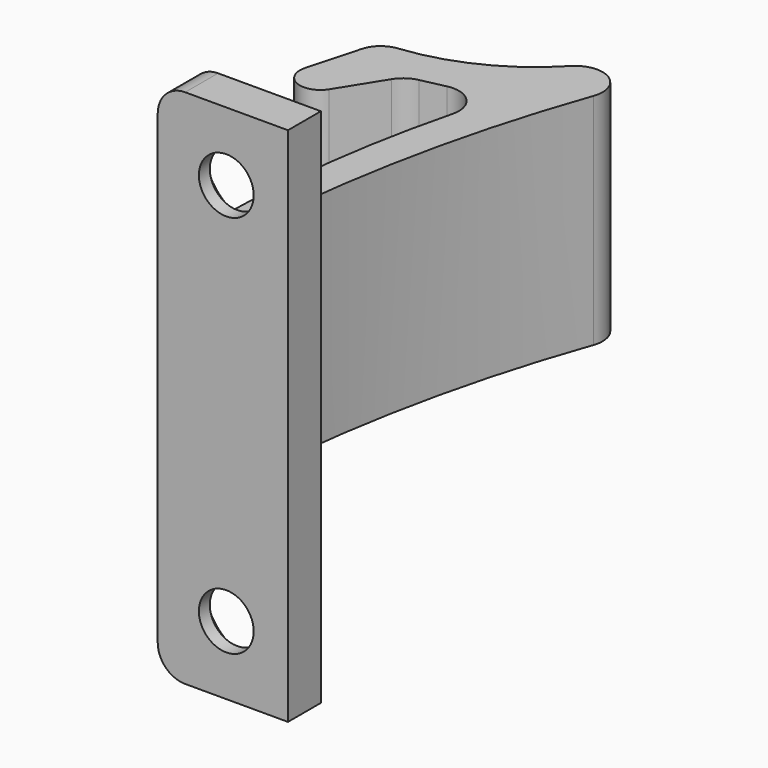
from build123d import *

# Parameters (mm, degrees)
F1_DEPTH       = 16
F2_W           = 9.5
F2_H           = 3
F3_DEPTH       = 11
F6_D           = 4
F6_CSINK_D     = 8
F6_CSINK_ANGLE = 90
F8_R           = 2
F9_R           = 3
F10_R          = 2


with BuildPart() as f1:
    # F0 (on Top) → F1 (new body)
    with BuildSketch(Plane.XY):
        with BuildLine():
            ThreePointArc((2, 3), (3.5524079534, 17.0474266553), (7.2489157042, 30.688394236))
            ThreePointArc((7.2489157042, 30.688394236), (6.4110728807, 33.0634017317), (3.9140154247, 32.735765863))
            ThreePointArc((3.9140154247, 32.735765863), (-0.2014778431, 29.7072757815), (-5.1119606936, 28.2944080641))
            ThreePointArc((-5.1119606936, 28.2944080641), (-6.1052113837, 27.8706276086), (-6.6852554951, 26.9597567962))
            Line((-6.6852554951, 26.9597567962), (-7.7398444423, 23.101280134))
            ThreePointArc((-7.7398444423, 23.101280134), (-6.8937110874, 21.3313839825), (-5.019957521, 21.9123500865))
            Line((-5.019957521, 21.9123500865), (-2.5832541287, 25.8215889335))
            Line((-2.5832541287, 25.8215889335), (0, 26.3843059314))
            ThreePointArc((0, 26.3843059314), (1.8642632491, 25.8195517282), (2.3638801074, 23.9367857399))
            ThreePointArc((2.3638801074, 23.9367857399), (0.4646962608, 13.5493737022), (0, 3))
            Line((0, 3), (0, 0))
            Line((0, 0), (9.5, 0))
            Line((9.5, 0), (9.5, 3))
            Line((9.5, 3), (2, 3))
        make_face()
    extrude(amount=F1_DEPTH)

    # F2 (on face) → F3 (join)
    with BuildSketch(Plane.XY.offset(16)):
        with Locations((4.75, 1.5)):
            Rectangle(F2_W, F2_H)
    extrude(amount=F3_DEPTH)

    # F6 (through all)
    with Locations(Plane(origin=(0, 3, 0), x_dir=(-1, 0, 0), z_dir=(0, 1, 0))):
        with Locations((-5, 22)):
            CounterSinkHole(F6_D / 2, F6_CSINK_D / 2, counter_sink_angle=F6_CSINK_ANGLE)

    # F7: F1 across plane


with BuildPart() as f1_1:
    add(f1.part)
    add(f1.part.mirror(Plane.XY.offset(8)))

    # F8
    f8_edges = [f1_1.edges().sort_by_distance(p)[0] for p in [
        (0, 1.5, 27),
        (0, 1.5, -11),
    ]]
    fillet(f8_edges, radius=F8_R)

    # F9
    f9_edges = [f1_1.edges().sort_by_distance(p)[0] for p in [
        (2, 3, 8),
    ]]
    fillet(f9_edges, radius=F9_R)

    # F10
    f10_edges = [f1_1.edges().sort_by_distance(p)[0] for p in [
        (-2.583254, 25.821589, 8),
    ]]
    fillet(f10_edges, radius=F10_R)


solid = f1_1.part
